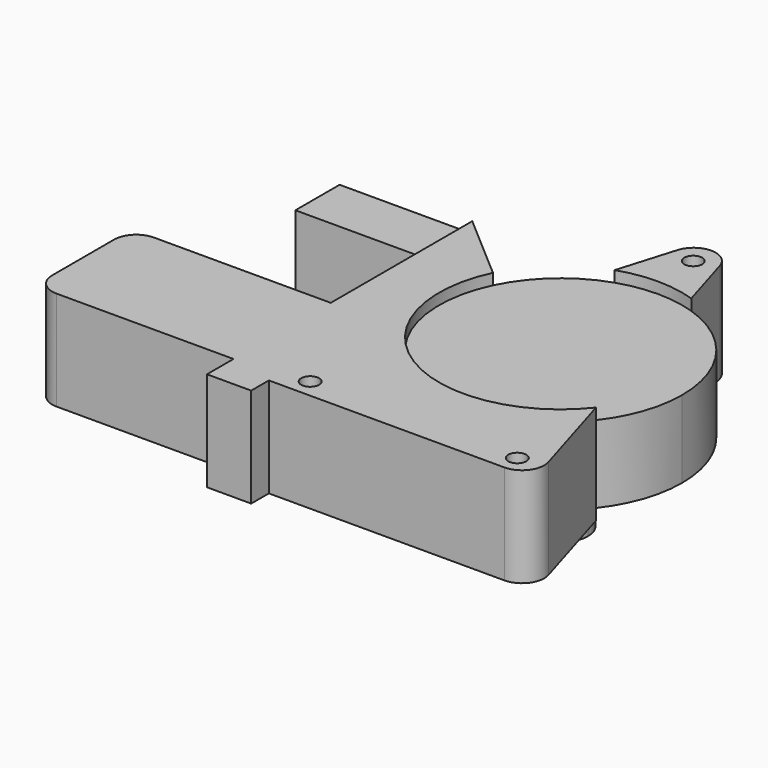
from build123d import *

# Parameters (mm, degrees)
F1_DEPTH  = 28.575
F2_START  = 3.175
F2_DEPTH  = 22.225
F3_START  = 3.175
F0_W      = 38.1
F0_H      = 15.875
F3_DEPTH  = 22.225
F5_DEPTH  = 19.05
F6_R      = 6.35
F7_START  = 9.525
F0_W_2    = 6.35
F0_H_2    = 4.6355
F7_DEPTH  = 9.525
F8_R      = 2.54
F9_R      = 2.5796875
F10_DEPTH = 47.626


with BuildPart() as f1:
    # F0 (on Top) → F1 (new body)
    with BuildSketch(Plane.XY):
        with BuildLine():
            Line((0, 127), (0, 92.075))
            ThreePointArc((0, 92.075), (5.5775580758, 91.6267526155), (11.0119450237, 90.2935165876))
            Line((11.0119450237, 90.2935165876), (0, 127))
        make_face()
        with BuildLine():
            ThreePointArc((-11.0119450237, 90.2935165876), (-5.5775580758, 91.6267526155), (0, 92.075))
            Line((0, 92.075), (0, 127))
            Line((0, 127), (-11.0119450237, 90.2935165876))
        make_face()
    extrude(amount=F1_DEPTH)



with BuildPart() as f1b:
    # F0 (on Top) → F1, piece 2 (new body)
    with BuildSketch(Plane.XY):
        with BuildLine():
            Line((0, 22.225), (0, 0))
            Line((0, 0), (38.1, 0))
            Line((38.1, 0), (27.4375962607, 35.5413457977))
            ThreePointArc((27.4375962607, 35.5413457977), (15.2491536976, 25.7299596355), (0, 22.225))
        make_face()
        with BuildLine():
            Line((-38.1, 0), (0, 0))
            Line((0, 0), (0, 22.225))
            ThreePointArc((0, 22.225), (-15.2491536976, 25.7299596355), (-27.4375962607, 35.5413457977))
            Line((-27.4375962607, 35.5413457977), (-38.1, 0))
        make_face()
        with BuildLine():
            Line((-38.1, -6.35), (-38.1, 0))
            Line((-38.1, 0), (-27.4375962607, 35.5413457977))
            ThreePointArc((-27.4375962607, 35.5413457977), (-34.7126867768, 53.3048729883), (-31.5015963811, 72.2299552534))
            Line((-31.5015963811, 72.2299552534), (-50.8, 88.9))
            Line((-50.8, 88.9), (-50.8, 73.025))
            Line((-50.8, 73.025), (-50.8, 38.1))
            Line((-50.8, 38.1), (-50.8, 3.175))
            Line((-50.8, 3.175), (-50.8, -6.35))
            Line((-50.8, -6.35), (-38.1, -6.35))
        make_face()
        Polygon((-107.95, 3.175), (-50.8, 3.175), (-50.8, 38.1), (-107.95, 38.1), (-107.95, 25.273), (-107.95, 20.6375), (-107.95, 16.002), align=None)
    extrude(amount=F1_DEPTH)


with BuildPart() as f1_1:
    add(f1.part)

    add(f1b.part)  # F2 merges F1b
    # F0 (on Top) → F2 (join)
    with BuildSketch(Plane.XY.offset(F2_START)):
        with BuildLine():
            ThreePointArc((-31.5015963811, 72.2299552534), (-34.7126867768, 53.3048729883), (-27.4375962607, 35.5413457977))
            Line((-27.4375962607, 35.5413457977), (-11.0119450237, 90.2935165876))
            ThreePointArc((-11.0119450237, 90.2935165876), (-23.0959598786, 83.3479438561), (-31.5015963811, 72.2299552534))
        make_face()
        with BuildLine():
            ThreePointArc((-27.4375962607, 35.5413457977), (-15.2491536976, 25.7299596355), (0, 22.225))
            Line((0, 22.225), (0, 92.075))
            ThreePointArc((0, 92.075), (-5.5775580758, 91.6267526155), (-11.0119450237, 90.2935165876))
            Line((-11.0119450237, 90.2935165876), (-27.4375962607, 35.5413457977))
        make_face()
        with BuildLine():
            Line((0, 92.075), (0, 22.225))
            ThreePointArc((0, 22.225), (15.2491536976, 25.7299596355), (27.4375962607, 35.5413457977))
            Line((27.4375962607, 35.5413457977), (11.0119450237, 90.2935165876))
            ThreePointArc((11.0119450237, 90.2935165876), (5.5775580758, 91.6267526155), (0, 92.075))
        make_face()
        with BuildLine():
            Line((11.0119450237, 90.2935165876), (27.4375962607, 35.5413457977))
            ThreePointArc((27.4375962607, 35.5413457977), (33.0001035938, 45.71545638), (34.925, 57.15))
            ThreePointArc((34.925, 57.15), (28.3226747056, 77.5848164299), (11.0119450237, 90.2935165876))
        make_face()
    extrude(amount=F2_DEPTH)

    # F0 (on Top) → F3 (join)
    with BuildSketch(Plane.XY.offset(F3_START)):
        with Locations((-69.85, 80.9625)):
            Rectangle(F0_W, F0_H)
    extrude(amount=F3_DEPTH)

    # F4 (on face) → F5 (join, symmetric)
    with BuildSketch(Plane.XY):
        with BuildLine():
            ThreePointArc((0, 49.0477367043), (5.6126600757, 51.3725766287), (7.9375, 56.9852367043))
            ThreePointArc((7.9375, 56.9852367043), (5.6126600757, 62.59789678), (0, 64.9227367043))
            Line((0, 64.9227367043), (0, 49.0477367043))
        make_face()
        with BuildLine():
            Line((0, 49.0477367043), (0, 64.9227367043))
            ThreePointArc((0, 64.9227367043), (-7.9375, 56.9852367043), (0, 49.0477367043))
        make_face()
    extrude(amount=F5_DEPTH, both=True)

    # F6
    f6_edges = [f1_1.edges().sort_by_distance(p)[0] for p in [
        (0, 127, 14.2875),
        (38.1, 0, 14.2875),
        (-107.95, 3.175, 14.2875),
        (-107.95, 38.1, 14.2875),
    ]]
    fillet(f6_edges, radius=F6_R)

    # F0 (on Top) → F7 (join)
    with BuildSketch(Plane.XY.offset(F7_START)):
        with Locations((-111.125, 22.95525)):
            Rectangle(F0_W_2, F0_H_2)
        with Locations((-111.125, 18.31975)):
            Rectangle(F0_W_2, F0_H_2)
    extrude(amount=F7_DEPTH)

    # F8
    f8_edges = [f1_1.edges().sort_by_distance(p)[0] for p in [
        (-111.125, 25.273, 19.05),
        (-111.125, 16.002, 19.05),
        (-111.125, 16.002, 9.525),
        (-111.125, 25.273, 9.525),
    ]]
    fillet(f8_edges, radius=F8_R)

    # F9 (on face) → F10 (cut, through all)
    with BuildSketch(Plane.XY.offset(28.575)):
        with Locations((0, 104.775)):
            Circle(F9_R)
        with Locations((28.965945942, 5.3702991543)):
            Circle(F9_R)
        with Locations((-30.5421855315, 5.3702991543)):
            Circle(F9_R)
    extrude(amount=-F10_DEPTH, mode=Mode.SUBTRACT)


solid = f1_1.part
